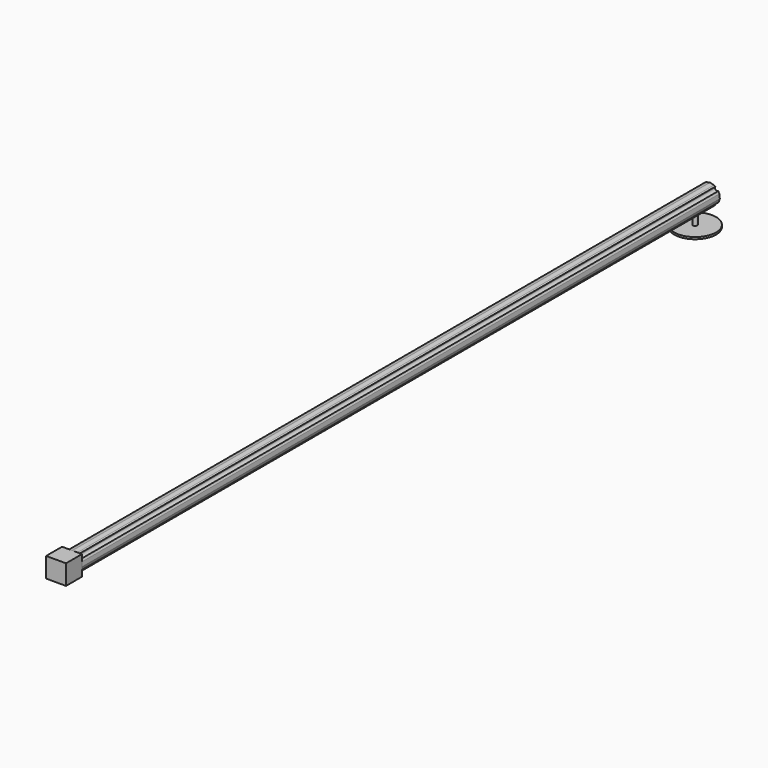
from build123d import *

# Parameters (mm, degrees)
F0_W     = 10
F0_H     = 10
F1_DEPTH = 10
F3_R     = 1.170259
F4_DEPTH = 400
F6_R     = 1.086598
F7_DEPTH = 5
F8_R     = 10.492932
F8_R_2   = 1.086598
F9_DEPTH = 1


with BuildPart() as f1:
    # F0 (on Front) → F1 (new body)
    with BuildSketch(Plane.XZ):
        with Locations((-5, 5)):
            Rectangle(F0_W, F0_H)
    extrude(amount=F1_DEPTH)

    # F3 (on face) → F4 (join)
    with BuildSketch(Plane(origin=(0, 0, 0), x_dir=(-1, 0, 0), z_dir=(0, 1, 0))):
        with BuildLine():
            ThreePointArc((9.21269, 7.274635), (7.774734, 7.428781), (7.733978, 8.874401))
            Line((7.733978, 8.874401), (7.019686, 9.393365))
            Line((7.019686, 9.393365), (5, 9.822663))
            Line((5, 9.822663), (2.980314, 9.393365))
            Line((2.980314, 9.393365), (2.317867, 8.912069))
            ThreePointArc((2.317867, 8.912069), (2.419518, 8.655342), (2.454127, 8.3814))
            ThreePointArc((2.454127, 8.3814), (1.930787, 7.443841), (0.858067, 7.397191))
            Line((0.858067, 7.397191), (0.277447, 6.391527))
            Line((0.277447, 6.391527), (0.061616, 4.338031))
            Line((0.061616, 4.338031), (0.66345, 2.485776))
            ThreePointArc((0.66345, 2.485776), (1.943866, 2.613429), (2.6238, 1.520976))
            ThreePointArc((2.6238, 1.520976), (2.548207, 1.098639), (2.330814, 0.728743))
            Line((2.330814, 0.728743), (3.967597, 0))
            Line((3.967597, 0), (6.032403, 0))
            Line((6.032403, 0), (7.785355, 0.780464))
            ThreePointArc((7.785355, 0.780464), (7.747756, 2.272181), (9.239545, 2.306781))
            Line((9.239545, 2.306781), (9.300324, 2.374283))
            Line((9.300324, 2.374283), (9.938384, 4.338031))
            Line((9.938384, 4.338031), (9.722553, 6.391527))
            Line((9.722553, 6.391527), (9.21269, 7.274635))
        make_face()
        with Locations((4.915473, 4.83232)):
            Circle(F3_R, mode=Mode.SUBTRACT)
    extrude(amount=F4_DEPTH)


with BuildPart() as f7:
    # F6 (on face) → F7 (new body)
    with BuildSketch(Plane(origin=(0, 0, 0), x_dir=(1, 0, 0), z_dir=(0, 0, -1))):
        with Locations((-4.994886, -390.715361)):
            Circle(F6_R)
    extrude(amount=F7_DEPTH)


with BuildPart() as f9:
    # F8 (on face) → F9 (new body)
    with BuildSketch(Plane(origin=(0, 0, -5), x_dir=(1, 0, 0), z_dir=(0, 0, -1))):
        with Locations((-4.994886, -390.715361)):
            Circle(F8_R)
        with Locations((-4.994886, -390.715361)):
            Circle(F8_R_2, mode=Mode.SUBTRACT)
    extrude(amount=F9_DEPTH)


solid = Compound([f1.part, f7.part, f9.part])
